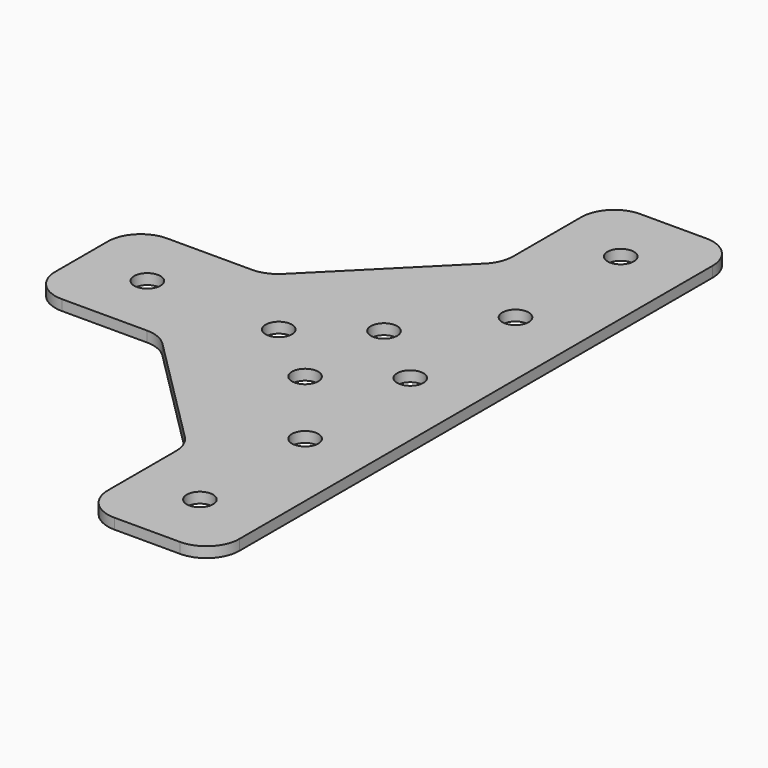
from build123d import *

# Parameters (mm, degrees)
F0_R     = 2.54
F1_DEPTH = 2.032


with BuildPart() as f1:
    # F0 (on Top) → F1 (new body)
    with BuildSketch(Plane.XY):
        with BuildLine():
            ThreePointArc((19.05, -77.704174), (23.540128, -75.844302), (25.4, -71.354174))
            Line((25.4, -71.354174), (25.4, 42.945826))
            ThreePointArc((25.4, 42.945826), (23.540128, 47.435954), (19.05, 49.295826))
            Line((19.05, 49.295826), (6.35, 49.295826))
            ThreePointArc((6.35, 49.295826), (1.859872, 47.435954), (0, 42.945826))
            Line((0, 42.945826), (0, 26.526082))
            ThreePointArc((0, 26.526082), (-0.483365, 24.096043), (-1.859872, 22.035954))
            Line((-1.859872, 22.035954), (-23.540128, 0.355698))
            ThreePointArc((-23.540128, 0.355698), (-25.600216, -1.020809), (-28.030256, -1.504174))
            Line((-28.030256, -1.504174), (-44.45, -1.504174))
            ThreePointArc((-44.45, -1.504174), (-48.940128, -3.364046), (-50.8, -7.854174))
            Line((-50.8, -7.854174), (-50.8, -14.204174))
            Line((-50.8, -14.204174), (-50.8, -20.554174))
            ThreePointArc((-50.8, -20.554174), (-48.940128, -25.044302), (-44.45, -26.904174))
            Line((-44.45, -26.904174), (-28.030256, -26.904174))
            ThreePointArc((-28.030256, -26.904174), (-25.600216, -27.387539), (-23.540128, -28.764046))
            Line((-23.540128, -28.764046), (-1.859872, -50.444302))
            ThreePointArc((-1.859872, -50.444302), (-0.483365, -52.50439), (0, -54.93443))
            Line((0, -54.93443), (0, -71.354174))
            ThreePointArc((0, -71.354174), (1.859872, -75.844302), (6.35, -77.704174))
            Line((6.35, -77.704174), (12.7, -77.704174))
            Line((12.7, -77.704174), (19.05, -77.704174))
        make_face()
        with BuildLine():
            ThreePointArc((15.24, -65.004174), (14.496051, -66.800225), (12.7, -67.544174))
            ThreePointArc((12.7, -67.544174), (10.903949, -63.208123), (15.24, -65.004174))
        make_face(mode=Mode.SUBTRACT)
        with Locations((0, -23.729174)):
            Circle(F0_R, mode=Mode.SUBTRACT)
        with Locations((12.7, -39.604174)):
            Circle(F0_R, mode=Mode.SUBTRACT)
        with Locations((-38.1, -14.204174)):
            Circle(F0_R, mode=Mode.SUBTRACT)
        with Locations((-12.7, -14.204174)):
            Circle(F0_R, mode=Mode.SUBTRACT)
        with Locations((0, -4.679174)):
            Circle(F0_R, mode=Mode.SUBTRACT)
        with Locations((12.7, -14.204174)):
            Circle(F0_R, mode=Mode.SUBTRACT)
        with Locations((12.7, 11.195826)):
            Circle(F0_R, mode=Mode.SUBTRACT)
        with Locations((12.7, 36.595826)):
            Circle(F0_R, mode=Mode.SUBTRACT)
    extrude(amount=F1_DEPTH)


solid = f1.part
